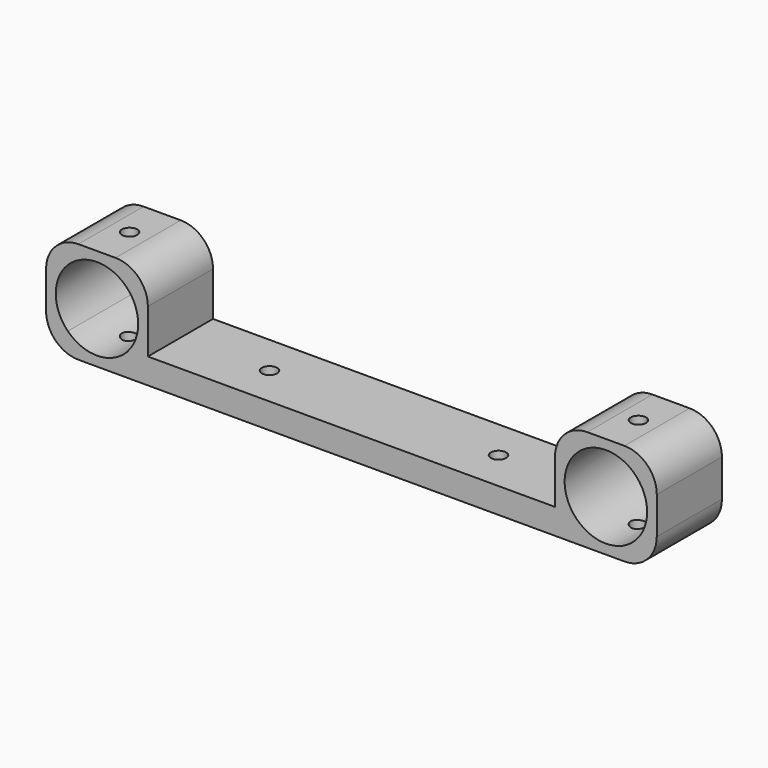
from build123d import *

# Parameters (mm, degrees)
F1_DEPTH  = 5
F3_DEPTH  = 80
F4_W      = 16
F4_H      = 15
F4_H_2    = 5
F5_DEPTH  = 20
F7_W      = 16
F7_H      = 15
F7_H_2    = 5
F8_DEPTH  = 20
F10_DEPTH = 16
F11_R     = 6.35
F13_DEPTH = 80
F16_DEPTH = 20
F18_DEPTH = 10


with BuildPart() as f1:
    # F0 (on Top) → F1 (new body)
    with BuildSketch(Plane.XY):
        Polygon((40, 0), (40, 8), (-40, 8), (-40, 0), (-40, -8), (40, -8), align=None)
    extrude(amount=F1_DEPTH)

    # F2 (on face) → F3 (join)
    with BuildSketch(Plane.YZ.offset(40)):
        Polygon((8, 0), (-8, 0), (8, -16), align=None)
    extrude(amount=-F3_DEPTH)

    # F4 (on face) → F5 (join)
    with BuildSketch(Plane.YZ.offset(40)):
        with Locations((0, 12.5)):
            Rectangle(F4_W, F4_H)
        with Locations((0, 2.5)):
            Rectangle(F4_W, F4_H_2)
    extrude(amount=F5_DEPTH)

    # F7 (on face) → F8 (join)
    with BuildSketch(Plane(origin=(-40, 0, 0), x_dir=(0, -1, 0), z_dir=(-1, 0, 0))):
        with Locations((0, 12.5)):
            Rectangle(F7_W, F7_H)
        with Locations((0, 2.5)):
            Rectangle(F7_W, F7_H_2)
    extrude(amount=F8_DEPTH)

    # F9 (on face) + F6 (on face) → F10 (cut)
    with BuildSketch(Plane.XZ.offset(8)):
        with BuildLine():
            ThreePointArc((-44.2724350724, 15.7275649276), (-55.7275649276, 15.7275649276), (-55.7275649276, 4.2724350724))
            Line((-55.7275649276, 4.2724350724), (-50, 10))
            Line((-50, 10), (-44.2724350724, 15.7275649276))
        make_face()
        with BuildLine():
            Line((-50, 10), (-55.7275649276, 4.2724350724))
            ThreePointArc((-55.7275649276, 4.2724350724), (-46.9002641978, 2.5165757867), (-41.9, 10))
            ThreePointArc((-41.9, 10), (-42.5165757867, 13.0997358022), (-44.2724350724, 15.7275649276))
            Line((-44.2724350724, 15.7275649276), (-50, 10))
        make_face()
    with BuildSketch(Plane.XZ.offset(8)):
        with BuildLine():
            ThreePointArc((44.2724350724, 15.7275649276), (44.2724350724, 4.2724350724), (55.7275649276, 4.2724350724))
            Line((55.7275649276, 4.2724350724), (50, 10))
            Line((50, 10), (44.2724350724, 15.7275649276))
        make_face()
        with BuildLine():
            Line((50, 10), (55.7275649276, 4.2724350724))
            ThreePointArc((55.7275649276, 4.2724350724), (57.4834242133, 6.9002641978), (58.1, 10))
            ThreePointArc((58.1, 10), (53.0997358022, 17.4834242133), (44.2724350724, 15.7275649276))
            Line((44.2724350724, 15.7275649276), (50, 10))
        make_face()
    extrude(amount=-F10_DEPTH, mode=Mode.SUBTRACT)

    # F11
    f11_edges = [f1.edges().sort_by_distance(p)[0] for p in [
        (40, 0, 20),
        (60, 0, 20),
        (60, 0, 0),
        (-60, 0, 0),
        (-60, 0, 20),
        (-40, 0, 20),
    ]]
    fillet(f11_edges, radius=F11_R)

    # F12 (on face) → F13 (cut)
    with BuildSketch(Plane.YZ.offset(40)):
        Polygon((8, -16), (8, 0), (-8, 0), align=None)
    extrude(amount=-F13_DEPTH, mode=Mode.SUBTRACT)

    # F14 (on face) + F15 (on face) → F16 (cut)
    with BuildSketch(Plane.XY.offset(20)):
        with BuildLine():
            Line((-50, 0), (-50.6226316309, -1.3646720677))
            ThreePointArc((-50.6226316309, -1.3646720677), (-49.1888118117, -1.2617344107), (-48.5, 0))
            ThreePointArc((-48.5, 0), (-48.7382655893, 0.8111881883), (-49.3773683691, 1.3646720677))
            Line((-49.3773683691, 1.3646720677), (-50, 0))
        make_face()
        with BuildLine():
            ThreePointArc((-49.3773683691, 1.3646720677), (-51.3646720677, 0.6226316309), (-50.6226316309, -1.3646720677))
            Line((-50.6226316309, -1.3646720677), (-50, 0))
            Line((-50, 0), (-49.3773683691, 1.3646720677))
        make_face()
    with BuildSketch(Plane.XY.offset(20)):
        with BuildLine():
            Line((50, 0), (49.3773683691, -1.3646720677))
            ThreePointArc((49.3773683691, -1.3646720677), (50.8111881883, -1.2617344107), (51.5, 0))
            ThreePointArc((51.5, 0), (51.2617344107, 0.8111881883), (50.6226316309, 1.3646720677))
            Line((50.6226316309, 1.3646720677), (50, 0))
        make_face()
        with BuildLine():
            ThreePointArc((50.6226316309, 1.3646720677), (48.6353279323, 0.6226316309), (49.3773683691, -1.3646720677))
            Line((49.3773683691, -1.3646720677), (50, 0))
            Line((50, 0), (50.6226316309, 1.3646720677))
        make_face()
    extrude(amount=-F16_DEPTH, mode=Mode.SUBTRACT)

    # F17 (on face) → F18 (cut)
    with BuildSketch(Plane.XY.offset(5)):
        with BuildLine():
            Line((-22.5, 0), (-24, 0))
            ThreePointArc((-24, 0), (-22.5, -1.5), (-21, 0))
            Line((-21, 0), (-22.5, 0))
        make_face()
        with BuildLine():
            ThreePointArc((-21, 0), (-22.5, 1.5), (-24, 0))
            Line((-24, 0), (-22.5, 0))
            Line((-22.5, 0), (-21, 0))
        make_face()
        with BuildLine():
            Line((22.5, 0), (21, 0))
            ThreePointArc((21, 0), (22.5, -1.5), (24, 0))
            Line((24, 0), (22.5, 0))
        make_face()
        with BuildLine():
            ThreePointArc((24, 0), (22.5, 1.5), (21, 0))
            Line((21, 0), (22.5, 0))
            Line((22.5, 0), (24, 0))
        make_face()
    extrude(amount=-F18_DEPTH, mode=Mode.SUBTRACT)


solid = f1.part
